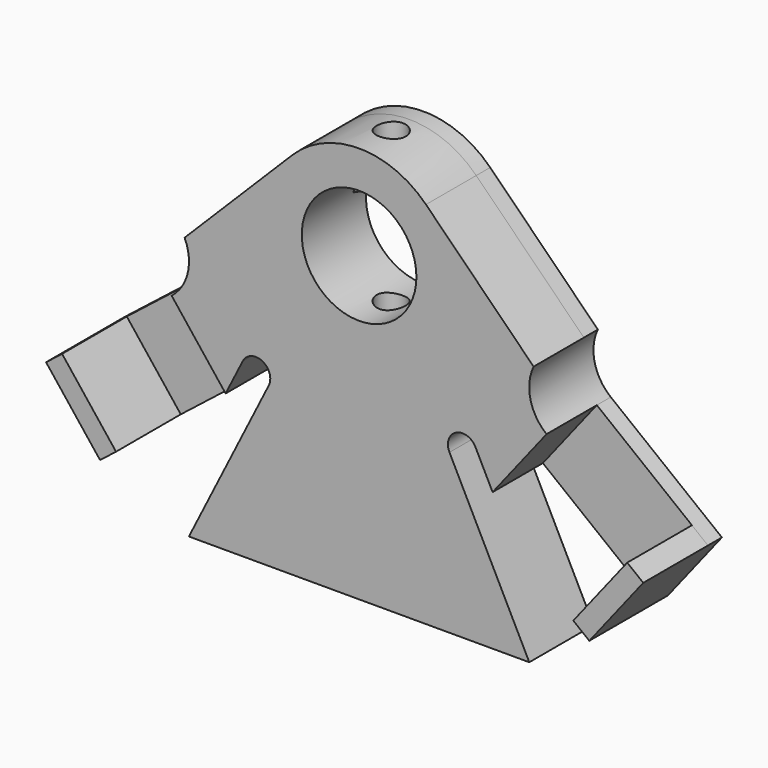
from build123d import *

# Parameters (mm, degrees)
F1_DEPTH  = 1.524
F2_R      = 8.255
F4_DEPTH  = 25.4
F5_R      = 5.0038
F6_DEPTH  = 5.4864
F8_DEPTH  = 7.0612
F9_R      = 1.27
F10_DEPTH = 34.666725


with BuildPart() as f1:
    # F0 (on Front) → F1 (new body)
    with BuildSketch(Plane.XZ):
        with BuildLine():
            Line((0, 38.087096), (0, 0))
            Line((0, 0), (14.859, 0))
            Line((14.859, 0), (7.890679, 13.867021))
            ThreePointArc((7.890679, 13.867021), (8.455221, 15.572041), (10.16024, 15.007499))
            Line((10.16024, 15.007499), (11.654992, 12.03293))
            Line((11.654992, 12.03293), (19.959811, 5.500029))
            Line((19.959811, 5.500029), (21.357256, 4.400743))
            Line((21.357256, 4.400743), (26.068483, 10.389794))
            Line((26.068483, 10.389794), (16.366219, 18.021982))
            ThreePointArc((16.366219, 18.021982), (14.956239, 20.2356), (15.236673, 22.845103))
            Line((15.236673, 22.845103), (0, 38.087096))
        make_face()
        with BuildLine():
            Line((-14.859, 0), (0, 0))
            Line((0, 0), (0, 38.087096))
            Line((0, 38.087096), (-15.236673, 22.845103))
            ThreePointArc((-15.236673, 22.845103), (-14.956239, 20.2356), (-16.366219, 18.021982))
            Line((-16.366219, 18.021982), (-26.068483, 10.389794))
            Line((-26.068483, 10.389794), (-21.357256, 4.400743))
            Line((-21.357256, 4.400743), (-19.959811, 5.500029))
            Line((-19.959811, 5.500029), (-11.654992, 12.03293))
            Line((-11.654992, 12.03293), (-10.16024, 15.007499))
            ThreePointArc((-10.16024, 15.007499), (-8.455221, 15.572041), (-7.890679, 13.867021))
            Line((-7.890679, 13.867021), (-14.859, 0))
        make_face()
    extrude(amount=F1_DEPTH)

    # F2
    f2_edges = [f1.edges().sort_by_distance(p)[0] for p in [
        (0, -0.762, 38.087096),
    ]]
    fillet(f2_edges, radius=F2_R)

    # F3 (on face) → F4 (cut)
    with BuildSketch(Plane.XZ.offset(1.524)):
        with BuildLine():
            ThreePointArc((5.0038, 26.410725), (3.538221, 29.948946), (0, 31.414525))
            ThreePointArc((0, 31.414525), (-3.538221, 22.872504), (5.0038, 26.410725))
        make_face()
    extrude(amount=-F4_DEPTH, mode=Mode.SUBTRACT)

    # F5 (on face) → F6 (join)
    with BuildSketch(Plane.XZ.offset(1.524)):
        with BuildLine():
            ThreePointArc((16.366219, 18.021982), (14.956239, 20.2356), (15.236673, 22.845103))
            Line((15.236673, 22.845103), (5.838185, 32.246873))
            ThreePointArc((5.838185, 32.246873), (0, 34.665725), (-5.838185, 32.246873))
            Line((-5.838185, 32.246873), (-15.236673, 22.845103))
            ThreePointArc((-15.236673, 22.845103), (-14.956239, 20.2356), (-16.366219, 18.021982))
            Line((-16.366219, 18.021982), (-11.654992, 12.03293))
            Line((-11.654992, 12.03293), (-10.16024, 15.007499))
            ThreePointArc((-10.16024, 15.007499), (-8.455221, 15.572041), (-7.890679, 13.867021))
            Line((-7.890679, 13.867021), (-14.859, 0))
            Line((-14.859, 0), (14.859, 0))
            Line((14.859, 0), (7.890679, 13.867021))
            ThreePointArc((7.890679, 13.867021), (8.455221, 15.572041), (10.16024, 15.007499))
            Line((10.16024, 15.007499), (11.654992, 12.03293))
            Line((11.654992, 12.03293), (16.366219, 18.021982))
        make_face()
        with Locations((0, 26.410725)):
            Circle(F5_R, mode=Mode.SUBTRACT)
    extrude(amount=F6_DEPTH)

    # F7 (on face) → F8 (join)
    with BuildSketch(Plane.XZ.offset(1.524)):
        Polygon((19.959811, 5.500029), (21.357256, 4.400743), (26.068483, 10.389794), (24.671038, 11.489081), align=None)
        Polygon((-19.959811, 5.500029), (-24.671038, 11.489081), (-26.068483, 10.389794), (-21.357256, 4.400743), align=None)
    extrude(amount=F8_DEPTH)

    # F9 (on face) → F10 (cut, through all)
    with BuildSketch(Plane(origin=(0, 0, 0), x_dir=(1, 0, 0), z_dir=(0, 0, -1))):
        with Locations((0, 3.5052)):
            Circle(F9_R)
    extrude(amount=-F10_DEPTH, mode=Mode.SUBTRACT)


solid = f1.part
